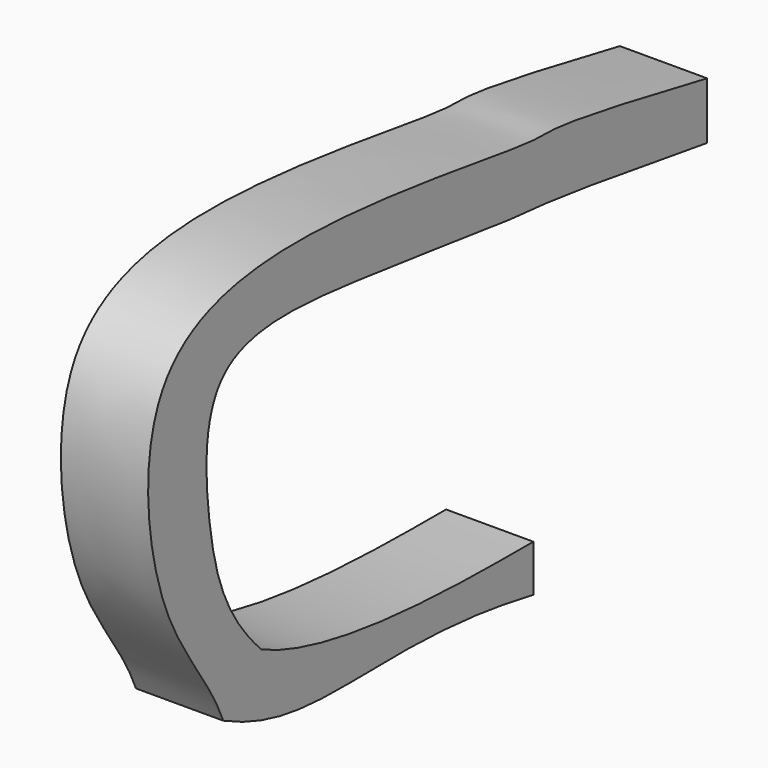
from build123d import *

# Parameters (mm, degrees)
F1_DEPTH = 3.048


with BuildPart() as f1:
    # F0 (on Right) → F1 (new body)
    with BuildSketch(Plane.YZ):
        with BuildLine():
            add(Edge.make_bspline(
                [(0, 0), (-0.6004048996, 1.5086833037), (-3.0334881934, 3.8222977361), (-4.0060120551, 12.4393311739), (3.367667789, 14.0558456434), (15.8530258102, 11.750546335), (13.5861258779, 12.6518735944), (21.1218483544, 11.1598266489)],
                knots=[0, 0, 0, 0, 0.1670236582, 0.3633849485, 0.5551582189, 0.7891249294, 1, 1, 1, 1], degree=3))
            add(Edge.make_bspline(
                [(0, 0), (4.0982416831, -2.0621325821), (6.6162073053, -0.2797659836), (13.5364746675, -1.6345949844)],
                knots=[0, 0, 0, 0, 13.6348101265, 13.6348101265, 13.6348101265, 13.6348101265], degree=3))
            Line((13.5364746675, -1.6345949844), (13.5364746675, 0))
            add(Edge.make_bspline(
                [(1.6705573319, 1.5086833037), (4.7980615687, 0), (10.2833379687, 0), (13.5364746675, 0)],
                knots=[0, 0, 0, 0, 11.961443037, 11.961443037, 11.961443037, 11.961443037], degree=3))
            add(Edge.make_bspline(
                [(21.1218483544, 9.1736335307), (13.5391330595, 10.3484202132), (14.8424938275, 9.9478930702), (5.769720397, 11.2408423872), (-0.9295156849, 11.7670656977), (-0.7542877865, 5.9417537421), (0.0794652128, 3.1039989078), (1.6705573319, 1.5086833037)],
                knots=[0, 0, 0, 0, 0.2342475194, 0.4506133653, 0.6452242796, 0.8125540343, 1, 1, 1, 1], degree=3))
            Line((21.1218483544, 9.1736335307), (21.1218483544, 11.1598266489))
        make_face()
    extrude(amount=F1_DEPTH)


solid = f1.part
